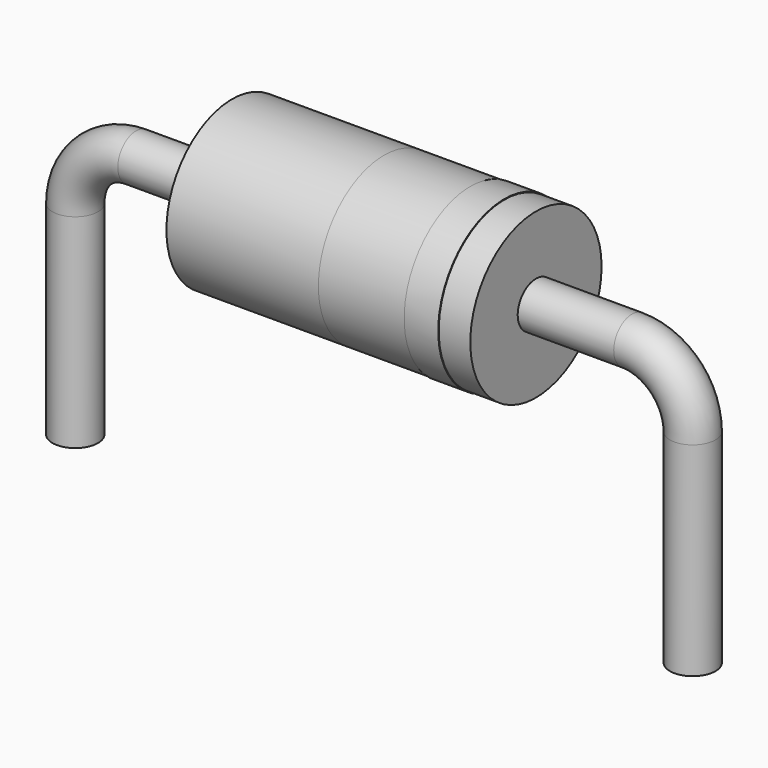
from build123d import *

# Parameters (mm, degrees)
F1_R          = 0.375
F3_R          = 1.35
F4_DEPTH      = 2.5
F4_DEPTH_BACK = 2.5
F6_START      = -0.52
F5_R          = 1.36
F6_DEPTH      = 0.56


with BuildPart() as f2:
    # F2: sweep along a path in F0
    with BuildLine(Plane.XZ) as f2_path:
        Line((-5.08, 0), (-5.08, 3.35))
        ThreePointArc((-5.08, 3.35), (-4.7871067812, 4.0571067812), (-4.08, 4.35))
        Line((-4.08, 4.35), (4.08, 4.35))
        ThreePointArc((4.08, 4.35), (4.7871067812, 4.0571067812), (5.08, 3.35))
        Line((5.08, 3.35), (5.08, 0))
    # F1 (on Top) → F2 (sweep)
    with BuildSketch(Plane.XY):
        with Locations((-5.08, 0)):
            Circle(F1_R)
    sweep(path=f2_path.line)


with BuildPart() as f4:
    # F3 (on Right) → F4 (new body, two sides)
    with BuildSketch(Plane.YZ) as f4_sk:
        with Locations((0, 4.35)):
            Circle(F3_R)
    extrude(amount=-F4_DEPTH)
    extrude(f4_sk.sketch, amount=F4_DEPTH_BACK)


with BuildPart() as f6:
    # F5 (on face) → F6 (new body)
    with BuildSketch(Plane.YZ.offset(2.5).offset(F6_START)):
        with Locations((0, 4.35)):
            Circle(F5_R)
    extrude(amount=-F6_DEPTH)


solid = Compound([f2.part, f4.part, f6.part])
